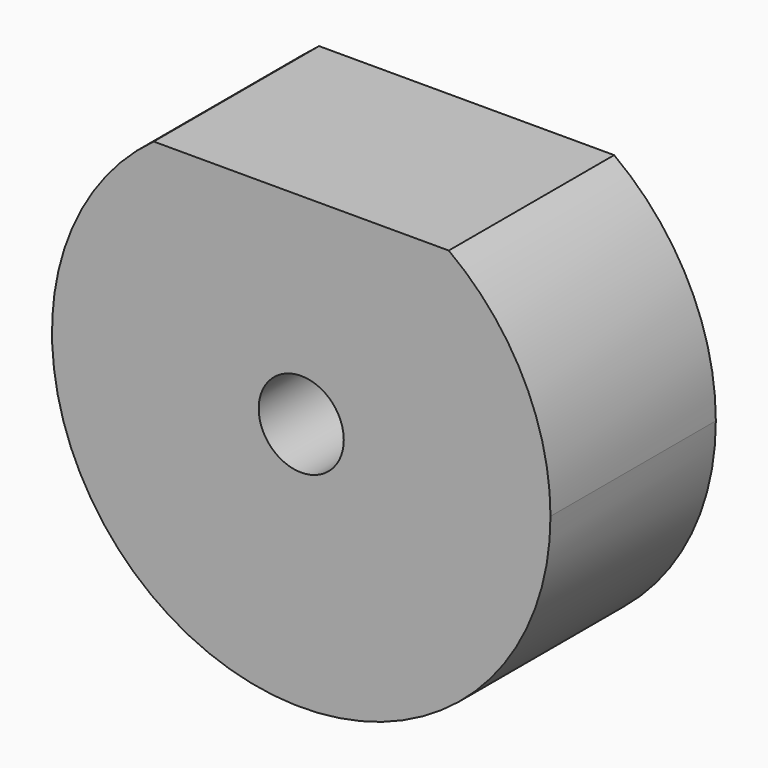
from build123d import *

# Parameters (mm, degrees)
F0_R     = 3.5
F1_DEPTH = 17


with BuildPart() as f1:
    # F0 (on Front) → F1 (new body)
    with BuildSketch(Plane.XZ):
        with BuildLine():
            ThreePointArc((-32.009382, 32.18602), (-29.133258, -2.625794), (0.626121, 15.663927))
            ThreePointArc((0.626121, 15.663927), (-1.584158, 24.923306), (-7.738376, 32.18602))
            Line((-7.738376, 32.18602), (-32.009382, 32.18602))
        make_face()
        with Locations((-19.873879, 15.663927)):
            Circle(F0_R, mode=Mode.SUBTRACT)
    extrude(amount=F1_DEPTH)


solid = f1.part
